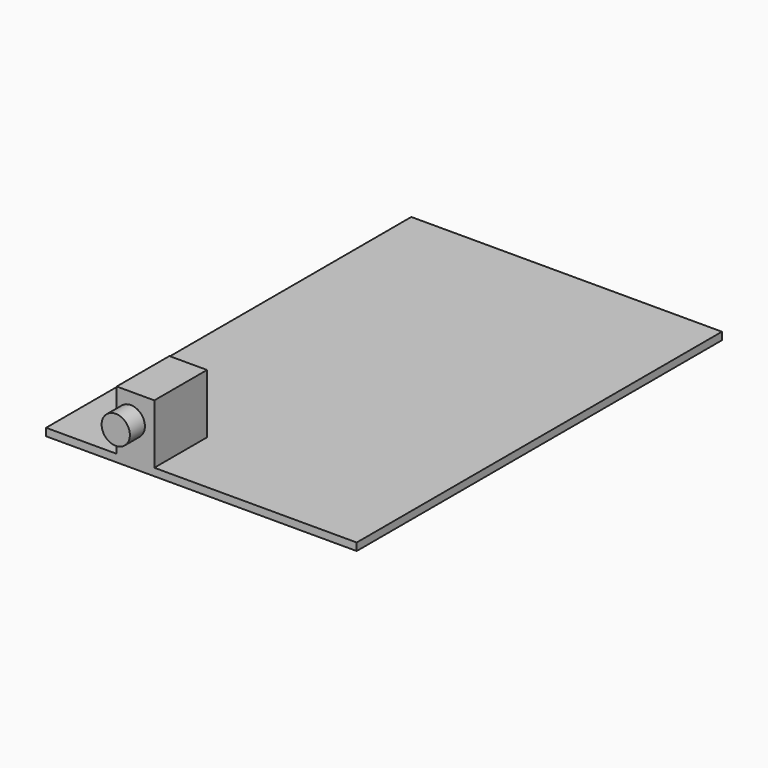
from build123d import *

# Parameters (mm, degrees)
F0_W     = 66
F0_H     = 97
F1_DEPTH = 1.6
F2_W     = 8
F2_H     = 14
F3_DEPTH = 12.6
F5_DEPTH = 4


with BuildPart() as f1:
    # F0 (on Top) → F1 (new body)
    with BuildSketch(Plane.XY):
        with Locations((0, 48.5)):
            Rectangle(F0_W, F0_H)
    extrude(amount=F1_DEPTH)

    # F2 (on face) → F3 (join)
    with BuildSketch(Plane.XY.offset(1.6)):
        with Locations((-14, 7)):
            Rectangle(F2_W, F2_H)
    extrude(amount=F3_DEPTH)

    # F4 (on face) → F5 (join)
    with BuildSketch(Plane.XZ):
        with BuildLine():
            ThreePointArc((-18, 8.7), (-15, 5.7), (-12, 8.7))
            ThreePointArc((-12, 8.7), (-15, 11.7), (-18, 8.7))
        make_face()
    extrude(amount=F5_DEPTH)


solid = f1.part
